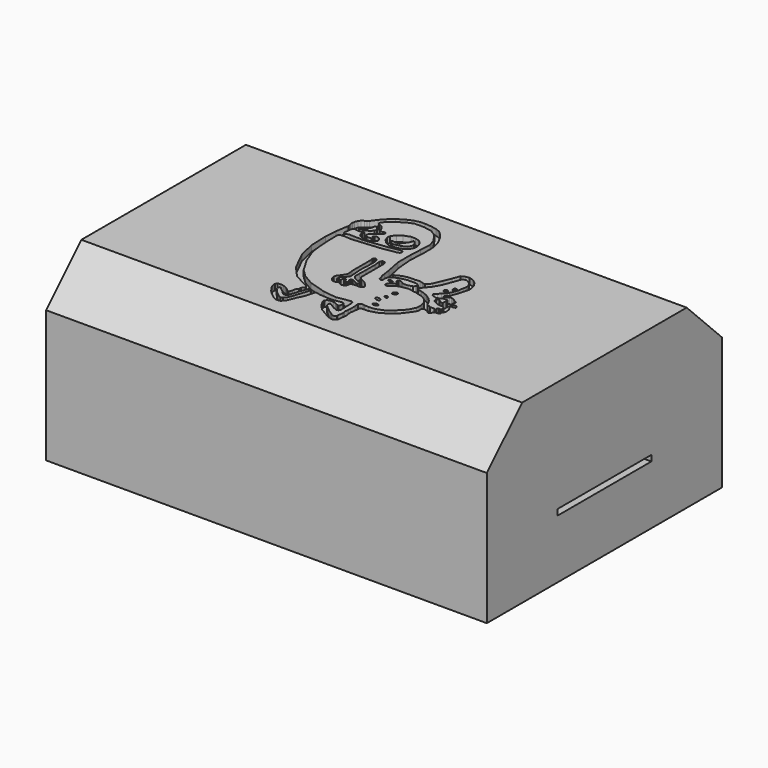
from build123d import *

# Parameters (mm, degrees)
F1_DEPTH  = 150
F2_SIZE   = 15
F5_DEPTH  = 2
F6_DEPTH  = 2
F7_DEPTH  = 2
F8_DEPTH  = 2
F10_DEPTH = 7
F9_W      = 20
F9_H      = 2
F11_DEPTH = 25
F13_DEPTH = 7


with BuildPart() as f1:
    # F0 (on Right) → F1 (new body)
    with BuildSketch(Plane.YZ):
        Polygon((50, -30), (50, 0), (50, 30), (0, 30), (-50, 30), (-50, -30), align=None)
        Polygon((-42, 0), (0, 23), (42, 0), (42, -22), (-42, -22), align=None, mode=Mode.SUBTRACT)
    extrude(amount=-F1_DEPTH)

    # F2
    f2_edges = [f1.edges().sort_by_distance(p)[0] for p in [
        (-75, -50, 30),
        (-75, 50, 30),
    ]]
    chamfer(f2_edges, length=F2_SIZE)

    # F4 (on face) → F5 (cut)
    with BuildSketch(Plane.XY.offset(30)):
        with BuildLine():
            add(Edge.make_bspline(
                [(-66.2627071142, -12.5863132998), (-66.0339743962, -11.6713861318), (-67.5285272832, -11.7838016869), (-69.0230801702, -11.8962172419), (-67.7572600012, -12.6987288549), (-66.4914398323, -13.5012404679), (-66.2627071142, -12.5863132998)],
                knots=[0, 0, 0, 2.0943951024, 2.0943951024, 4.1887902048, 4.1887902048, 6.2831853072, 6.2831853072, 6.2831853072], degree=2, weights=[1, 0.5, 1, 0.5, 1, 0.5, 1]))
        make_face()
        with BuildLine():
            add(Edge.make_bspline(
                [(-66.7667165399, -9.8715359345), (-66.9616168437, -10.6024117826), (-65.9880119412, -10.4706152185), (-65.0144070387, -10.3388186544), (-65.7931116374, -9.7397393704), (-66.571816236, -9.1406600864), (-66.7667165399, -9.8715359345)],
                knots=[0, 0, 0, 2.0943951024, 2.0943951024, 4.1887902048, 4.1887902048, 6.2831853072, 6.2831853072, 6.2831853072], degree=2, weights=[1, 0.5, 1, 0.5, 1, 0.5, 1]))
        make_face()
        with BuildLine():
            add(Edge.make_bspline(
                [(-66.3383752108, -7.4864411727), (-65.7798185294, -8.3607065316), (-65.0077044639, -7.2518530214), (-64.2355903983, -6.1429995112), (-65.5662611452, -6.3775876625), (-66.8969318921, -6.6121758137), (-66.3383752108, -7.4864411727)],
                knots=[0, 0, 0, 2.0943951024, 2.0943951024, 4.1887902048, 4.1887902048, 6.2831853072, 6.2831853072, 6.2831853072], degree=2, weights=[1, 0.5, 1, 0.5, 1, 0.5, 1]))
        make_face()
        with BuildLine():
            add(Edge.make_bspline(
                [(-70.2368989587, -2.3631234653), (-70.1018755592, -1.6339979262), (-71.352196731, -1.7795216589), (-72.6025179029, -1.9250453915), (-71.4872201305, -2.508647198), (-70.3719223582, -3.0922490045), (-70.2368989587, -2.3631234653)],
                knots=[0, 0, 0, 2.0943951024, 2.0943951024, 4.1887902048, 4.1887902048, 6.2831853072, 6.2831853072, 6.2831853072], degree=2, weights=[1, 0.5, 1, 0.5, 1, 0.5, 1]))
        make_face()
        with BuildLine():
            add(Edge.make_bspline(
                [(-55.2385151386, 2.3557364475), (-55.0960816293, 3.4319004038), (-56.160274513, 3.0252417779), (-57.2244673967, 2.6185831521), (-56.3027080223, 1.9490778216), (-55.380948648, 1.2795724912), (-55.2385151386, 2.3557364475)],
                knots=[0, 0, 0, 2.0943951024, 2.0943951024, 4.1887902048, 4.1887902048, 6.2831853072, 6.2831853072, 6.2831853072], degree=2, weights=[1, 0.5, 1, 0.5, 1, 0.5, 1]))
        make_face()
        Polygon((-81.1486020684, 0.5592904636), (-81.1486020684, 4.0960377082), (-81.4035385847, 4.8172427341), (-81.7067623138, 5.2127563395), (-82.062728703, 5.3907372057), (-82.4780166149, 5.3380019963), (-82.7746540308, 4.9227126874), (-82.7406002985, 4.2582538205), (-82.6382562518, 3.6633235868), (-82.6382562518, 0.6270961603), (-82.6382562518, -2.0906461868), (-82.6382562518, -4.0021101013), (-82.4082270265, -5.6698448025), (-82.5519934297, -6.4174500294), (-83.1558257341, -7.4525955133), (-84.1538161039, -8.7896585464), (-84.305986762, -9.2065921053), (-84.3922495842, -9.8248040304), (-84.1538161039, -10.551453568), (-83.8130861521, -11.2329088151), (-83.2679271698, -11.7001933977), (-82.7616974711, -11.8267489597), (-82.2554752231, -11.7488689721), (-81.622697413, -11.4470813423), (-81.2807381153, -11.3491490483), (-81.0305848718, -11.4785423502), (-80.4756209254, -11.9242295623), (-79.7369331121, -12.1257559375), (-78.9947882295, -11.852344498), (-78.5347223282, -11.5216737613), (-78.373067081, -10.9609691426), (-78.373067081, -10.4427952319), (-78.0017208956, -10.1342091842), (-77.3954242468, -9.9108451977), (-76.9048393943, -9.924409728), (-76.1574837836, -9.9470552249), (-75.410906578, -9.9696771354), (-74.8219415545, -9.7526982427), (-74.4050070643, -9.3501415104), (-74.3618756533, -8.8325683028), (-74.8938247561, -8.1280944869), (-75.4113942385, -7.6680299826), (-76.1302486062, -6.9779329933), (-77.0072489977, -6.5322453156), (-77.9417529702, -6.0721803457), (-78.3794213189, -5.6258106423), (-78.5584347885, -5.1398985291), (-78.50882411, -3.502627369), (-78.50882411, 4.0165549144), (-78.6238387227, 4.7929142602), (-78.9688825607, 5.3104870021), (-79.5439630747, 5.4686339572), (-79.9241214991, 5.3104870021), (-80.2566694815, 4.603771), (-80.0472944975, 2.4925905745), (-80.0472944975, -1.3057151809), (-80.1280140877, -3.9696549065), (-80.1280140877, -5.7727568783), (-79.9241214991, -6.2246760353), (-79.4956460595, -6.7322519608), (-78.6321088672, -7.233235985), (-77.9992863536, -7.5166872703), (-77.2609934211, -7.6946686022), (-76.7863765359, -8.0374469981), (-76.647952199, -8.4131844342), (-76.8391117454, -8.6702685803), (-77.1555230021, -8.8548418134), (-77.5510370731, -8.802106604), (-78.0520215631, -8.5120629519), (-78.5002708435, -8.2022445276), (-78.9419263601, -7.997895591), (-79.357214272, -7.9451603815), (-79.7065868974, -8.070406504), (-79.9241214991, -8.3868168294), (-79.9241214991, -8.7493713945), (-79.7659158707, -8.9734960347), (-79.5549750328, -9.3624172732), (-79.6011164784, -9.67882853), (-79.7593221068, -9.9095450714), (-80.0757333636, -10.0018307567), (-80.2866742015, -9.8831774667), (-80.4712474346, -9.6524609253), (-80.6360468268, -9.2239873484), (-80.9129029512, -8.7493713945), (-81.1568051577, -8.7493713945), (-81.5193578601, -8.9669041336), (-81.7368924618, -9.3821929768), (-81.8489566445, -9.9688712507), (-82.2906121612, -10.2259553969), (-82.6004296541, -10.2259553969), (-82.8772857785, -10.0479740649), (-83.0354914069, -9.7315637395), (-82.9761698842, -9.2503549531), (-82.7845782042, -8.8063087314), (-81.2893658876, -7.2248363867), (-81.0305848718, -6.6353785805), (-81.0305848718, -5.7727568783), (-81.2031105161, -4.0331375785), (-81.3211277127, -1.5397545649), align=None)
    extrude(amount=-F5_DEPTH, mode=Mode.SUBTRACT)

    # F4 (on face) → F6 (cut)
    with BuildSketch(Plane.XY.offset(30)):
        Polygon((-73.2956454158, -23.6143879592), (-71.9786658883, -24.1474490613), (-71.7209354043, -24.1777021438), (-71.5066865087, -24.1241380572), (-71.2330097416, -23.953876623), (-71.0335448384, -23.6599296331), (-70.9777325392, -23.2593007386), (-70.9777325392, -21.9653677195), (-70.9777325392, -21.4876048267), (-71.0685995849, -20.2025752515), (-71.0685995849, -18.8961157915), (-71.1418911815, -18.4067487717), (-71.3000893593, -18.1167069823), (-71.5637654066, -17.8793985397), (-71.8274414539, -17.8207941353), (-72.2033903003, -17.8207941353), (-76.467871666, -18.5733512044), (-81.1086371541, -17.9775767028), (-86.8782326579, -16.2216126919), (-90.5155912042, -14.0893701464), (-93.0116921663, -11.6586647928), (-95.5855697393, -11.7688542232), (-92.0822322369, -15.6119111925), (-87.1775597334, -18.2447247207), (-86.8422612548, -18.4251423925), (-86.6125524044, -18.6941362917), (-86.4702314138, -18.9389493316), (-86.4702314138, -19.1268716007), (-87.1127471328, -20.0906433165), (-87.2003659606, -20.9083911031), (-87.5605642796, -21.2977938354), (-87.8915563226, -21.8818988651), (-87.9791751504, -22.6314999163), (-88.0656102935, -23.2161090588), (-88.1446674466, -23.4005711973), (-88.3004292846, -23.6147437245), (-88.5243341327, -23.7705055624), (-88.7839760412, -23.7731453467), (-89.1172811389, -23.5167574137), (-89.6060988307, -23.0854470283), (-90.1236757636, -22.6972661912), (-90.7993912697, -22.33784087), (-91.5038660169, -22.064678371), (-92.1364575624, -21.9352841377), (-92.9703265429, -21.8777768314), (-93.5454070568, -22.107809782), (-93.9623340964, -22.5966274738), (-94.0342247486, -23.2292171568), (-93.8041880727, -24.0055769682), (-93.1896567345, -25.1674205065), (-92.0506492257, -26.6860928386), (-90.8142998815, -27.8640389442), (-89.5487368107, -28.8375467062), (-89.0230387449, -29.1393343359), (-88.2442370057, -29.4897966087), (-87.8158956766, -29.5676775277), (-87.2707292438, -29.5774117112), (-86.8423804641, -29.4216517359), (-86.5698009729, -29.2464196682), (-85.6936424971, -28.2339714468), (-85.4015946388, -27.6303961873), (-84.3717157841, -25.0843856484), (-83.6513191462, -23.7506795675), (-83.1645652652, -22.3975032568), (-82.7652737498, -20.9342725575), (-82.5869515538, -20.0910251588), (-82.4056118727, -19.8462102562), (-82.1717679501, -19.7696313262), (-80.8867365122, -20.0324784964), (-79.0603011847, -20.1857872307), (-77.504619956, -20.2780738473), (-75.7379904389, -20.2517062426), (-74.4393840432, -19.9946239591), (-73.6285820603, -19.7902750224), (-73.160558939, -19.7507236153), (-72.8441476822, -19.9616644531), (-72.6068392396, -20.304441452), (-72.5936591625, -20.7790583372), (-72.6727619767, -21.477798), (-72.7782323956, -21.6491874307), (-73.0023607612, -21.8337606639), (-73.3583196998, -21.8667201698), (-73.6483633518, -21.7282902449), (-74.5448619127, -21.2602652609), (-75.3886252642, -21.0756920278), (-76.3962268829, -21.007547155), (-76.8635123968, -21.1438387632), (-77.3405283689, -21.3774796575), (-77.7591392398, -21.8934398144), (-77.798075974, -22.5846301764), (-77.3015916348, -23.5289335251), (-76.240465045, -25.0865463167), (-74.7412666678, -26.5662781894), (-73.3686164021, -27.3450855166), (-71.4702755213, -28.4840893), (-70.1365694404, -29.0487241), (-69.3577677011, -29.0681943297), (-68.5400217772, -28.717732057), (-68.0629983544, -28.1725674868), (-67.9267123342, -26.4981333166), (-67.7514746785, -25.0865463167), (-68.0240616202, -23.2076756656), (-67.8848028183, -22.3779771477), (-67.5683915615, -19.8862422258), (-67.4958825111, -19.6027904749), (-67.311309278, -19.4511767477), (-66.8037310243, -19.3624943495), (-64.87480551, -19.3624943495), (-61.9534403086, -18.4907708317), (-59.4805926085, -16.9380512089), (-57.2952851653, -15.040284954), (-59.5203861594, -14.6412272006), (-61.6913102567, -16.344865784), (-64.193226397, -17.3577498645), (-66.2473291159, -17.4930422826), (-67.4828854063, -17.4930422826), (-67.8932737339, -17.376085332), (-68.1768804789, -17.2952599823), (-68.5116499662, -17.2952599823), (-68.8865855336, -17.3577498645), (-69.128027869, -17.5188620541), (-69.3597495556, -17.7616234869), (-69.4815963507, -17.9546512663), (-69.4815963507, -18.4511411935), (-69.3240910769, -19.5028018206), (-69.3240910769, -20.2740523964), (-69.3240910769, -20.7684449852), (-69.3240910769, -21.2430618703), (-69.4324150681, -22.1395585686), (-69.4324150681, -22.7145273238), (-69.5877820253, -23.2596918941), (-69.5877820253, -23.5809497535), (-69.3837404251, -24.4279019535), (-69.3837404251, -24.719953537), (-69.5877820253, -26.1923950166), (-69.5877820253, -26.5890788287), (-69.6108713746, -26.7624501139), (-69.7827786207, -26.9425474107), (-70.001758635, -27.1328762174), (-70.1961815357, -27.2372495383), (-70.49497962, -27.2577144206), (-70.7487538457, -27.2413417697), (-70.9718689322, -27.1611940116), (-71.3888034225, -26.8449001014), (-72.1939131618, -26.2985732406), (-72.9271396995, -25.9247701615), (-73.2865706086, -25.5653448403), (-73.6316144466, -25.2346731722), (-74.4079723954, -24.6308390051), (-74.899867177, -24.1801645607), (-75.2685964108, -23.8718800247), (-75.4559859633, -23.6300881952), (-75.5406171083, -23.4306100756), (-75.6191536784, -23.1357757002), (-75.6548568606, -22.8010080755), (-75.5864009261, -22.6349104196), (-75.401827693, -22.4635209888), (-75.210660696, -22.4041938782), (-75.006313622, -22.4832966924), (-74.6635347605, -22.6678699255), (-74.2363408208, -22.9872576892), align=None)
        Polygon((-87.3612016439, -25.6391465664), (-87.150759995, -25.3006611019), (-86.002022028, -21.5234495699), (-85.262157023, -19.6445789188), (-84.9853605032, -19.2563515157), (-84.6425816417, -19.0849620849), (-84.4052731991, -19.1640648991), (-84.2404738069, -19.4541085511), (-84.2404738069, -19.8628064245), (-86.0729664564, -25.5205165595), (-86.5613073111, -26.6670640558), (-87.3256698251, -27.6012867689), (-87.9414081573, -27.7923792601), (-88.7482389808, -27.5163576007), (-90.3619006276, -26.1999517679), (-92.0180231333, -24.3952013552), (-92.0180231333, -23.8707736135), (-91.8755829334, -23.4682168812), (-91.6311740875, -23.3388226479), (-91.3292616606, -23.4682168812), (-90.8835753798, -23.9139031619), (-89.7477865219, -24.7909016907), (-88.8276547194, -25.7254093885), (-88.2957056165, -25.9841941297), (-87.7206251025, -25.869179517), align=None, mode=Mode.SUBTRACT)
        Polygon((-95.5855697393, -11.7688542232), (-93.0116921663, -11.6586647928), (-95.8651378751, -6.8297628313), (-97.7151691914, -1.9381477032), (-98.1923230394, 1.7925158231), (-98.4538964556, 5.6635001674), (-98.4538964556, 8.3155780802), (-98.5245669617, 9.361419919), (-98.4535366297, 9.9065937102), (-98.0682171633, 10.1357575352), (-96.5838804841, 10.2360583842), (-94.168536365, 10.0635336712), (-84.5503136516, 10.9261553735), (-80.6435570121, 11.598222889), (-79.8133313656, 11.7053482682), (-79.3937593699, 11.9017446414), (-79.0857747197, 12.1606308967), (-78.9712410202, 12.3795445776), (-78.9920389652, 12.6873301342), (-79.1393369436, 13.0042424425), (-79.3915430594, 13.2150159739), (-79.7369331121, 13.292234391), (-83.7625041604, 12.5877605751), (-88.0977064371, 12.0640378445), (-90.0595933199, 11.793769896), (-91.8155387044, 11.6751156747), (-93.1666865945, 11.7528401315), (-94.626262784, 11.7528401315), (-96.0412099957, 11.8599655107), (-97.4695533514, 11.4805633202), (-97.7552160621, 11.4805633202), (-97.9337617755, 11.5966154262), (-98.067555435, 11.8299043661), (-98.1123000383, 12.0429703966), (-97.8817716241, 13.4780984372), (-97.7657213807, 14.5225701854), (-97.4979102612, 14.8841179907), (-97.2143967194, 15.0884523909), (-96.8908667564, 15.156394802), (-96.3733105703, 15.0889627494), (-95.8493500948, 14.9718215689), (-94.8705822229, 15.0289833546), (-94.4408103824, 15.0289833546), (-94.2361578345, 15.0719610974), (-94.0642431378, 15.2131728828), (-93.9291715622, 15.2541035786), (-93.8473120332, 15.2274984866), (-93.8207060099, 15.1620088145), (-93.8673019409, 14.9535899982), (-94.0914303064, 14.4064631313), (-94.0189138055, 13.8791110367), (-93.7222838402, 13.2462894544), (-93.1290090084, 12.7650815994), (-92.2720655799, 12.3497918248), (-91.0855233669, 12.2904647142), (-90.1165157557, 12.2904647142), (-89.6616727114, 12.3497918248), (-89.4836932421, 12.4618541449), (-88.9227390289, 12.8435976803), (-88.3558690548, 13.3122708648), (-88.1460830569, 13.6157926172), (-88.0925133824, 13.7764811516), (-88.1282240152, 13.9853358269), (-88.288910687, 14.4504774362), (-88.547796011, 14.8120252416), (-88.8736397028, 15.1244746521), (-89.0209376812, 15.2539173141), (-89.3004909158, 15.3407342732), (-89.7156000137, 15.4166147113), (-90.1217833161, 15.3675153852), (-90.4476195574, 15.2425356209), (-90.5993804336, 15.0639936328), (-90.6376168132, 14.8426294327), (-90.5801951885, 14.5675912499), (-90.3595611453, 14.3106868491), (-90.0966078043, 14.084007591), (-90.0595933199, 13.9853358269), (-90.1179247937, 13.8316872039), (-90.2177989483, 13.7546192855), (-90.8638089895, 13.7546192855), (-91.5559530258, 13.7546192855), (-92.0465514064, 13.8271301985), (-92.3931251424, 14.0908045598), (-92.5908833742, 14.387441799), (-92.5908833742, 14.7631792352), (-92.51178056, 15.1059580967), (-92.392064631, 15.3501359746), (-91.4602056146, 16.2161534021), (-90.5711427331, 16.902199015), (-89.4373953342, 17.7770555019), (-89.2588570714, 17.9600622505), (-89.1963616014, 18.1743130088), (-89.228982504, 18.4620429844), (-89.3436595798, 18.6340585351), (-89.5802304149, 18.7456477433), (-89.9194628, 18.7456477433), (-90.5306224992, 18.5063309998), (-90.8746570349, 18.2769745588), (-91.0710543394, 18.2100199163), (-91.2005007267, 18.299292773), (-91.2585258484, 18.4956882149), (-91.2585258484, 18.7534373254), (-91.6323289275, 19.601682201), (-92.0465514064, 20.2219001949), (-92.7057415247, 20.9536012262), (-93.4769958258, 21.4084405452), (-94.0570831299, 21.6457489878), (-94.1889211535, 22.0214873552), (-94.0438956022, 22.4961042404), (-93.7533006072, 22.8917486966), (-91.4602056146, 24.9300543219), (-88.9123231173, 26.6286432743), (-86.6404548287, 27.5628678501), (-83.3494439721, 27.5628678501), (-84.4472721219, 29.2766392231), (-86.1883312464, 29.2129423469), (-88.1417095661, 28.724597767), (-89.7978320718, 27.9602333903), (-92.2677217145, 26.5110441817), (-94.1716954112, 24.775378406), (-95.5855697393, 23.1855288148), (-96.9418689703, 21.3404999844), (-97.5022688508, 20.8296384662), (-98.1253154169, 20.5083831641), (-98.8262444735, 20.0410969555), (-99.3495790463, 19.35388811), (-99.7155532241, 18.3779429644), (-99.8433035153, 17.567653121), (-99.8141914606, 16.845215112), (-99.5872691274, 16.1351785064), (-99.4618460536, 15.5707616359), (-99.6499881148, 15.0063447654), (-100.2143993974, 11.1808516085), (-100.5364730954, 6.9460258819), (-100.2836972475, 0.6731989561), (-98.9870727062, -4.8837740906), align=None)
        Polygon((-93.3084562421, 16.8683975935), (-94.846598804, 16.0993263125), (-95.713019371, 16.0993263125), (-96.5015664697, 16.29402861), (-96.5794473886, 16.4692588151), (-96.4918285608, 16.6347566992), (-95.8979874849, 16.7613122612), (-95.2457413077, 17.1020403504), (-94.281964004, 18.1144885719), (-93.9899161458, 18.8932940364), (-93.9899161458, 19.711041823), (-93.8146784902, 19.8668017983), (-92.9969325662, 19.506605342), (-92.3641547561, 18.6304468662), (-92.4517735839, 17.7737604827), align=None, mode=Mode.SUBTRACT)
        Polygon((-81.9630920887, 29.0430821478), (-84.4472721219, 29.2766392231), (-83.3494439721, 27.5628678501), (-80.6316956878, 27.0745232701), (-78.4659981728, 25.7156528533), (-76.5338540077, 22.9129809886), (-75.8040861737, 20.588931424), (-75.9912729263, 16.8520342559), (-76.1901587248, 12.8815835342), (-76.1901587248, 7.4196546338), (-75.1805305481, 2.3083912674), (-73.3951479197, 2.4214370642), (-73.99328053, 5.171162542), (-74.4322687387, 10.1568475366), (-74.1708129644, 16.1975044757), (-74.1708129644, 19.0426409245), (-74.3194371462, 20.4864423722), (-74.9351754785, 22.7795373648), (-76.039262116, 25.0301677734), (-77.3981288075, 26.9198473543), (-78.7570029497, 28.1088594347), (-80.2857354283, 28.724597767), align=None)
        Polygon((-57.9313859344, -13.1120337173), (-59.5203861594, -14.6412272006), (-57.2952851653, -15.040284954), (-55.4550252855, -12.5961909071), (-54.6499118209, -11.3022588193), (-54.5179024339, -10.8933523297), (-54.5179024339, -10.5139501393), (-54.5179024339, -9.9113704637), (-54.4464848936, -9.523040615), (-54.2322322726, -9.304326959), (-54.0715456009, -9.1748833656), (-53.9108589292, -9.1570299119), (-53.732316941, -9.1927377507), (-53.5269938409, -9.3534262851), (-53.339522332, -9.4471601769), (-53.156517446, -9.4426972792), (-52.9110208154, -9.3578891829), (-52.6610612869, -9.290936403), (-52.5003746152, -9.3087907881), (-52.4111017585, -9.478405118), (-52.3575395346, -9.7328275442), (-52.2325597703, -10.0318863988), (-52.0183108747, -10.1970378309), (-51.8040619791, -10.2372094989), (-51.5183918178, -10.1568652317), (-51.2416511774, -9.9872509018), (-51.1229932308, -9.8278438672), (-51.0114021599, -9.5377126709), (-51.0114021599, -9.2966808006), (-50.9087406099, -9.1449199244), (-50.7435910404, -9.0735033154), (-50.2481348813, -8.9574502781), (-49.6187768877, -8.9038880542), (-49.2661558092, -8.8280076161), (-49.0429773927, -8.649465628), (-48.9581674337, -8.4664598107), (-49.0340478718, -8.1629380584), (-49.087613821, -7.957614027), (-49.0210801363, -7.7637210488), (-48.6219413579, -7.3353773914), (-48.4691187739, -6.7545422353), (-48.4691187739, -6.2769996002), (-48.5548116267, -5.6771375239), (-48.6339144409, -5.2288887091), (-48.9503256977, -4.807007499), (-49.3128821254, -4.3323910795), (-49.6226996183, -3.9500612766), (-49.7149862349, -3.7457128055), (-49.6820285916, -3.6336504854), (-49.550190568, -3.58750741), (-49.214001745, -3.6204666831), (-48.6339144409, -3.6929775961), (-48.2120364904, -3.6336504854), (-47.8692576289, -3.4490774851), (-47.7901548147, -3.2183611766), (-47.9351766407, -2.9019503854), (-48.1988526881, -2.6646421757), (-48.7327948213, -2.4800691754), (-49.7149862349, -2.3548232857), (-49.9786622822, -2.1834340878), (-50.0343628228, -1.9346277695), (-49.6981777251, -1.4731952688), (-49.6718101203, -1.1370086577), (-49.8827509582, -0.8535572561), (-50.594676286, -0.5107787438), (-51.2077212334, -0.0625300017), (-51.7614409328, 0.2406970889), (-52.3415282369, 0.3132079146), (-52.8425127268, 0.1813700364), (-53.5478442907, -0.2141435689), (-54.0554188192, -0.4184922436), (-54.3454624712, -0.4053084413), (-54.4509328902, -0.2141435689), (-54.4245652854, 0), (-54.231479764, 0.2178662107), (-53.7739321589, 0.6364746951), (-55.9446699917, 0.6082986947), (-56.640651077, -0.1758024737), (-57.2636947036, -0.7209671312), (-57.380516082, -0.9254037286), (-57.3999844491, -1.1201053858), (-57.283166796, -1.4413630124), (-57.0105835795, -1.7528856406), (-56.8061470985, -1.8891767832), (-56.4556829631, -1.9670573529), (-56.0760162771, -2.044938039), (-55.6087307632, -2.1617589518), (-55.4432347417, -2.2104345262), (-55.1998578012, -2.1228187252), (-54.6352230012, -1.8891767832), (-54.0511198342, -1.5387139283), (-53.3112511039, -1.2856017565), (-52.8829097748, -1.2271913001), (-52.4497963488, -1.3771256199), (-52.2266179323, -1.4663967304), (-52.1418116987, -1.5735221095), (-52.1373450756, -1.6806473723), (-52.2623248398, -1.8234810559), (-52.2213070842, -2.2893286685), (-52.3069612682, -2.8456349391), (-52.2712543607, -3.2785998192), (-52.2891059518, -3.4214335028), (-52.3962341249, -3.452678211), (-52.8693683445, -3.3812613692), (-53.5478293896, -2.9884686228), (-53.7843964994, -2.7519003488), (-53.9674051106, -2.6313844137), (-54.1548728943, -2.63584801), (-54.4316135347, -2.6983376592), (-54.6637177467, -2.8277807869), (-54.8779703677, -3.0197135638), (-54.9315325916, -3.2205735333), (-54.9315325916, -3.350016661), (-54.8601150513, -3.5955121275), (-54.6694099903, -3.9071529172), (-54.3529987335, -4.2037880048), (-53.7510737777, -4.4476878829), (-53.1005375087, -4.7772829421), (-52.7577623725, -4.8893447965), (-51.2943603098, -5.0475504249), (-50.9581752121, -5.0475504249), (-50.8461110294, -5.1200613379), (-50.4505969584, -5.4166964255), (-50.2001047134, -5.7528829202), (-50.147369504, -6.0692937113), (-50.1671470702, -6.2934183516), (-50.2792075276, -6.4516235143), (-50.4110455513, -6.5702777356), (-50.6088025868, -6.6296048462), (-50.8065596223, -6.5307263285), (-51.0175004601, -6.4713992178), (-51.228441298, -6.5175425261), (-51.3866469264, -6.6493805498), (-51.478933543, -6.8207695149), (-51.5053011477, -6.9921589456), (-51.4064207673, -7.2558345273), (-51.3577982783, -7.4253622442), (-51.4024309814, -7.5280237943), (-51.5541918576, -7.5548053719), (-51.7282709479, -7.4432161637), (-51.8934242427, -7.3316274211), (-52.2147975862, -7.3316274211), (-53.4422770143, -7.3584089987), (-53.7145547569, -7.1798665449), (-53.9466589689, -7.0548872463), (-54.5626282692, -6.9611524232), (-54.7928847373, -6.787778344), (-55.445138365, -5.5611585267), (-55.8929517865, -4.7434116714), (-56.9832809269, -3.6920229904), (-57.9567886889, -2.9716268182), (-58.2299977541, -4.3557058088), (-57.3483524727, -5.0267948104), (-56.4889237285, -6.1219534837), (-56.2445148826, -6.7545422353), (-55.9138432145, -8.1203598529), (-55.9138432145, -8.9686037973), (-56.0244061053, -9.864394553), (-56.6857494414, -11.4171123132), align=None)
        Polygon((-73.3951479197, 2.4214370642), (-75.1805305481, 2.3083912674), (-74.8085156083, 0), (-74.7030451894, -1.1496931547), (-74.2943510413, -2.0989258774), (-74.2943510413, -2.5867258664), (-74.0702301264, -3.0745260883), (-73.7010836601, -3.2986502629), (-73.3187496662, -3.3777530771), (-73.0748474598, -3.2590990886), (-72.9496032, -3.0613422859), (-72.9957446456, -2.7844826691), (-73.0967223644, -2.3147177417), (-73.0091035366, -1.5456463443), (-72.8922858834, -1.2730640592), (-72.0355957747, -0.3871717199), (-71.1497068405, 0.0898471699), (-70.1536014676, 0.4996428033), (-67.9650902748, 1.0138105135), (-64.9987384677, 1.0138105135), (-64.3297896753, 0.8315132491), (-64.0510758657, 0.6555780312), (-63.8038423189, 0.4195876032), (-63.6700916134, 0.2491508494), (-63.6700916134, 0.1191520843), (-63.774064313, -0.0455598338), (-64.006798004, -0.4142528926), (-64.4054710865, -0.8319196641), (-65.1635378599, -1.1021873215), (-65.849095583, -1.2867602054), (-66.4753243327, -1.3592711184), (-67.1222582459, -1.3122112723), (-67.6619975948, -1.2034305103), (-67.9127731251, -1.0451310431), (-68.3452710509, -0.7721211878), (-68.8493102789, -0.5667976802), (-69.2826211452, -0.526625663), (-69.5877820253, -0.6392513546), (-69.7827786207, -0.8435380296), (-69.7827786207, -1.1217669209), (-69.5542117954, -1.413026601), (-69.2138615889, -1.7378991435), (-68.8493102789, -2.0858722273), (-68.7981471419, -2.2188979201), (-68.866051376, -2.3674586534), (-69.0601021051, -2.5197404902), (-69.5877820253, -2.9127500494), (-70.49497962, -3.6246758265), (-70.8813890815, -4.0294947103), (-70.9473118186, -4.4843354262), (-70.7759186625, -4.9259923398), (-70.1961815357, -5.0267948104), (-69.7080128805, -4.9186167032), (-68.9857527614, -4.1619464755), (-68.2361498475, -3.6946625914), (-67.5352215767, -3.3247293904), (-66.8635070324, -3.1494980212), (-65.5492693186, -2.8769157361), (-64.4881427288, -2.6822141372), (-63.6786929153, -2.7939759473), (-62.8444254398, -3.03173461), (-61.7082846554, -3.1633857955), (-60.4890823724, -3.5108473865), (-59.3008548021, -3.8494814653), (-58.2299977541, -4.3557058088), (-57.9567886889, -2.9716268182), (-58.6187727749, -2.5822236203), (-59.6993677318, -2.1441450808), (-60.8967803419, -1.745006768), (-61.4030063152, -1.6281857388), (-61.9287006557, -1.6281857388), (-62.1429383755, -1.5570955584), (-62.3036250472, -1.4097982785), (-62.4196790159, -1.1955476366), (-62.4419972301, -0.945588632), (-62.4062865973, -0.717947376), (-62.3571872711, -0.5527958274), (-62.0849132538, -0.1064404496), (-61.8349537253, 0.281888817), (-61.5552440286, 0.6138108438), (-60.4511611164, 1.8240555655), (-58.922432363, 4.5417980291), (-57.4786327779, 8.2786940038), (-56.8628944457, 10.0622121245), (-56.5987750888, 10.3947259486), (-56.1241582036, 10.6649929658), (-55.4847419262, 10.7638714835), (-55.0101287663, 10.5463396758), (-54.26524207, 10.0453551859), (-53.7510737777, 9.5839230344), (-53.3819310367, 8.9181419462), (-53.1314387918, 8.107339032), (-53.0523359776, 7.6327226125), (-53.1182549894, 7.0987790823), (-53.2675236464, 6.5759029239), (-53.5011664033, 4.9890847877), (-53.5985156894, 4.3563046493), (-54.1631504893, 3.1588897109), (-54.4941462576, 2.2048519459), (-54.8251383007, 1.6402172623), (-55.9446699917, 0.6082986947), (-53.7739321589, 0.6364746951), (-53.2677061856, 1.3179302914), (-52.9880933464, 2.065748442), (-52.4148195982, 3.5732463002), (-52.0711243153, 4.9653882161), (-51.5247993171, 6.8200239912), (-51.5247993171, 7.6682684012), (-52.0423725247, 9.5804119483), (-52.9049932957, 10.8312135562), (-54.1989244521, 11.9094895199), (-55.7228885591, 12.3695544899), (-57.0455752313, 12.1538992971), (-58.1957362592, 11.5788178518), (-59.1446198523, 9.062839672), (-60.1970404387, 6.5476419404), (-61.4047124982, 3.6291067954), (-62.2673332691, 2.4070600048), (-62.6986399293, 2.0763885695), (-63.1299540401, 2.0763885695), (-63.6906549335, 2.3064208217), (-64.8551955819, 2.5652071927), (-66.5229335427, 2.4501909502), (-68.7082409859, 2.4070600048), (-70.4622343183, 1.9613720942), (-71.9861984253, 1.1850132141), (-72.6187899709, 0.8543416043), (-72.9638338089, 0.983734848), (-73.1938704848, 1.3862913474), align=None)
    extrude(amount=-F6_DEPTH, mode=Mode.SUBTRACT)

    # F4 (on face) → F7 (cut)
    with BuildSketch(Plane.XY.offset(30)):
        Polygon((-82.7083438635, 21.0774466395), (-84.836140275, 20.2723331749), (-86.2019583583, 19.3234495819), (-87.2371047735, 17.9145019501), (-87.4096304178, 16.7499631643), (-86.7914184928, 15.44165425), (-85.8137831092, 14.3490005285), (-84.491096437, 13.6013953015), (-83.0533951521, 13.6013953015), (-81.198759377, 13.8889355585), (-79.7466784716, 14.3490005285), (-78.9559409022, 14.9672124535), (-78.1939551234, 15.8873423934), (-77.8489112854, 16.979996115), (-77.8489112854, 17.8569927812), (-78.208334744, 18.9927779138), (-78.9128094912, 20.0135465711), (-79.7754302621, 20.7036435604), (-81.1412483454, 21.0774466395), align=None)
        Polygon((-83.3840668201, 14.8090645671), (-84.3185707927, 14.9672124535), (-85.3537172079, 15.8298332244), (-85.0661769509, 16.0454884171), (-84.5917314291, 16.0454884171), (-83.8585048914, 15.9592274576), (-82.8233584762, 16.1029975861), (-82.3632925749, 16.5343079716), (-81.0406059027, 18.2451736182), (-80.6092992425, 19.5247288793), (-80.2354961634, 19.5247288793), (-79.5741528273, 18.7196154147), (-79.0278241038, 17.7276004106), (-79.3728753924, 16.7643390596), (-79.8904448748, 16.1317512393), (-81.0406059027, 15.4128996655), align=None, mode=Mode.SUBTRACT)
    extrude(amount=-F7_DEPTH, mode=Mode.SUBTRACT)

    # F4 (on face) → F8 (cut)
    with BuildSketch(Plane.XY.offset(30)):
        with BuildLine():
            add(Edge.make_bspline(
                [(-64.8143589497, -15.1505963877), (-64.9059053716, -14.2069680179), (-66.1850987105, -14.8073242759), (-67.4642920494, -15.4076805338), (-66.0935522886, -15.7509526456), (-64.7228125277, -16.0942247574), (-64.8143589497, -15.1505963877)],
                knots=[0, 0, 0, 2.0943951024, 2.0943951024, 4.1887902048, 4.1887902048, 6.2831853072, 6.2831853072, 6.2831853072], degree=2, weights=[1, 0.5, 1, 0.5, 1, 0.5, 1]))
        make_face()
        with BuildLine():
            add(Edge.make_bspline(
                [(-54.3749928474, 5.1919035614), (-55.2848291386, 5.4807415757), (-55.1219644392, 4.4163577055), (-54.9590997398, 3.3519738354), (-54.212128148, 4.1275196912), (-53.4651565563, 4.903065547), (-54.3749928474, 5.1919035614)],
                knots=[0, 0, 0, 2.0943951024, 2.0943951024, 4.1887902048, 4.1887902048, 6.2831853072, 6.2831853072, 6.2831853072], degree=2, weights=[1, 0.5, 1, 0.5, 1, 0.5, 1]))
        make_face()
    extrude(amount=-F8_DEPTH, mode=Mode.SUBTRACT)

    # F9 (on face) → F10 (join)
    with BuildSketch(Plane.YZ):
        Polygon((-42, 0), (-42, -22), (0, -22), (42, -22), (42, 0), (0, 23), align=None)
        Polygon((20, -10), (0, -10), (-20, -10), (-20, -8), (0, -8), (20, -8), align=None, mode=Mode.SUBTRACT)
    extrude(amount=-F10_DEPTH)

    # F9 (on face) → F11 (cut)
    with BuildSketch(Plane.YZ):
        with Locations((10, -9)):
            Rectangle(F9_W, F9_H)
        with Locations((-10, -9)):
            Rectangle(F9_W, F9_H)
    extrude(amount=-F11_DEPTH, mode=Mode.SUBTRACT)

    # F12 (on face) → F13 (join)
    with BuildSketch(Plane(origin=(-150, 0, 0), x_dir=(0, -1, 0), z_dir=(-1, 0, 0))):
        Polygon((0, 23), (-42, 0), (-42, -22), (42, -22), (42, 0), align=None)
    extrude(amount=-F13_DEPTH)


solid = f1.part
